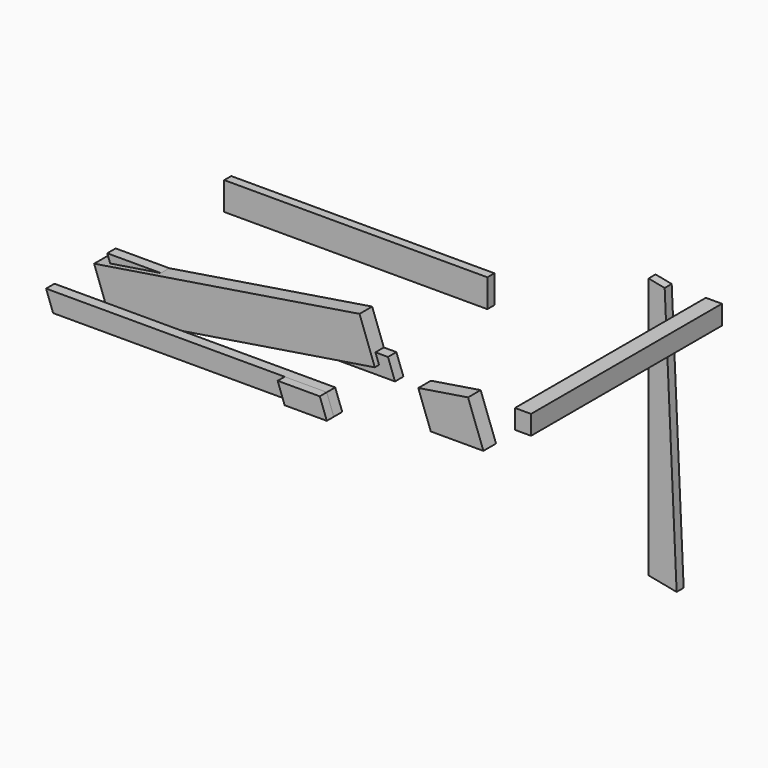
from build123d import *

# Parameters (mm, degrees)
F0_W      = 750
F0_H      = 80
F1_DEPTH  = 25
F3_DEPTH  = 30
F6_DEPTH  = 25
F9_DEPTH  = 45
F10_DEPTH = 45
F12_DEPTH = 25
F13_W     = 45.9
F13_H     = 55
F14_DEPTH = 680


with BuildPart() as f1:
    # F0 (on Front) → F1 (new body)
    with BuildSketch(Plane.XZ):
        with Locations((103.211057, 255.137616)):
            Rectangle(F0_W, F0_H)
    extrude(amount=F1_DEPTH)


with BuildPart() as f3:
    # F2 (on Front) → F3 (new body)
    with BuildSketch(Plane.XZ):
        Polygon((198.943272, 6.513417), (-601.056728, 6.513417), (-581.038365, -48.486583), (218.961635, -48.486583), align=None)
    extrude(amount=F3_DEPTH)


with BuildPart() as f4_1:
    # F4: copy of F3
    add(f3.part.moved(Location((0, -218, 0))))


with BuildPart() as f6:
    # F5 (on face) → F6 (new body)
    with BuildSketch(Plane.XZ.offset(248)):
        Polygon((98.961635, -48.486583), (218.961635, -48.486583), (198.943272, 6.513417), (78.943272, 6.513417), align=None)
    extrude(amount=F6_DEPTH)


with BuildPart() as f9:
    # F8 (on Front) → F9 (new body)
    with BuildSketch(Plane.XZ):
        Polygon((332.809293, -130.760708), (482.809293, -130.760708), (439.132865, -10.760708), (297.322195, -33.260708), align=None)
    extrude(amount=F9_DEPTH)


with BuildPart() as f10:
    # F7 (on Front) → F10 (new body)
    with BuildSketch(Plane.XZ):
        Polygon((-626.550433, -21.772196), (-582.874005, -141.772196), (173.449567, -21.772196), (129.773139, 98.227804), align=None)
    extrude(amount=F10_DEPTH)


with BuildPart() as f12:
    # F11 (on Front) → F12 (new body)
    with BuildSketch(Plane.XZ):
        Polygon((937.587218, -303.386167), (1017.587218, -318.922102), (983.502226, 432.732005), (937.587218, 441.648662), align=None)
    extrude(amount=F12_DEPTH)


with BuildPart() as f14:
    # F13 (on Front) → F14 (new body)
    with BuildSketch(Plane.XZ):
        with Locations((1103.68616, 402.031388)):
            Rectangle(F13_W, F13_H)
    extrude(amount=F14_DEPTH)


solid = Compound([f1.part, f3.part, f4_1.part, f6.part, f9.part, f10.part, f12.part, f14.part])
